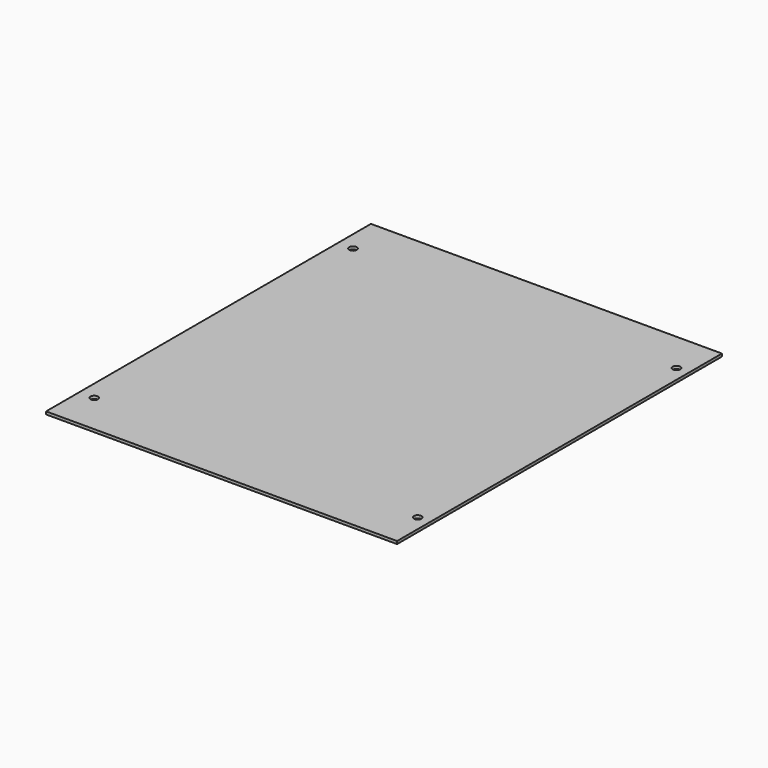
from build123d import *

# Parameters (mm, degrees)
CYLINDER003_R     = 2.75
CYLINDER003_DEPTH = 10
CYLINDER002_R     = 2.75
CYLINDER002_DEPTH = 10
CYLINDER001_R     = 2.75
CYLINDER001_DEPTH = 10
CYLINDER_R        = 2.75
CYLINDER_DEPTH    = 10
BOX_W             = 255
BOX_H             = 295
BOX_DEPTH         = 2


with BuildPart() as cylinder003:
    # Cylinder003 → Cylinder003 (new body)
    with BuildSketch(Plane(origin=(245, 265, -5), x_dir=(1, 0, 0), z_dir=(0, 0, 1))):
        Circle(CYLINDER003_R)
    extrude(amount=CYLINDER003_DEPTH)


with BuildPart() as cylinder002:
    # Cylinder002 → Cylinder002 (new body)
    with BuildSketch(Plane(origin=(245, 30, -5), x_dir=(1, 0, 0), z_dir=(0, 0, 1))):
        Circle(CYLINDER002_R)
    extrude(amount=CYLINDER002_DEPTH)


with BuildPart() as cylinder001:
    # Cylinder001 → Cylinder001 (new body)
    with BuildSketch(Plane(origin=(10, 265, -5), x_dir=(1, 0, 0), z_dir=(0, 0, 1))):
        Circle(CYLINDER001_R)
    extrude(amount=CYLINDER001_DEPTH)


with BuildPart() as cylinder:
    # Cylinder → Cylinder (new body)
    with BuildSketch(Plane(origin=(10, 30, -5), x_dir=(1, 0, 0), z_dir=(0, 0, 1))):
        Circle(CYLINDER_R)
    extrude(amount=CYLINDER_DEPTH)


with BuildPart() as cut003:
    # Box → Box (new body)
    with BuildSketch(Plane(origin=(-1, 0, 0), x_dir=(1, 0, 0), z_dir=(0, 0, 1))):
        with Locations((127.5, 147.5)):
            Rectangle(BOX_W, BOX_H)
    extrude(amount=BOX_DEPTH)

    # Cut: cut Cylinder
    add(cylinder.part, mode=Mode.SUBTRACT)

    # Cut001: cut Cylinder001
    add(cylinder001.part, mode=Mode.SUBTRACT)

    # Cut002: cut Cylinder002
    add(cylinder002.part, mode=Mode.SUBTRACT)

    # Cut003: cut Cylinder003
    add(cylinder003.part, mode=Mode.SUBTRACT)


solid = cut003.part
